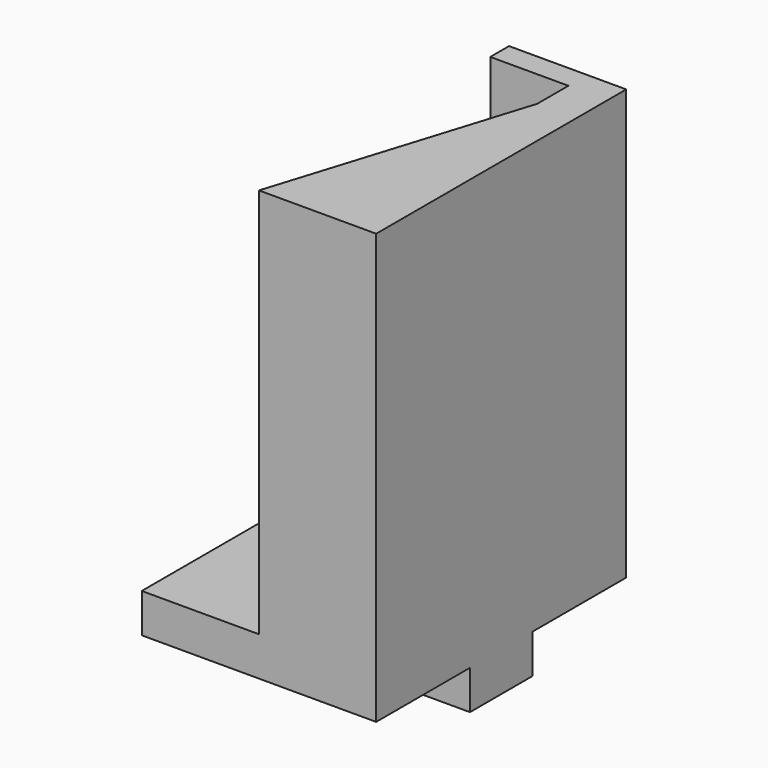
from build123d import *

# Parameters (mm, degrees)
F1_DEPTH = 50
F3_DEPTH = 15
F4_DEPTH = 15


with BuildPart() as f1:
    # F0 (on Top) → F1 (new body)
    with BuildSketch(Plane.XY):
        Polygon((0, 40), (0, 37), (10, 37), (10, 32), (0, 0), (15, 0), (15, 40), align=None)
    extrude(amount=F1_DEPTH)

    # F2 (on Right) → F3 (join)
    with BuildSketch(Plane.YZ):
        Polygon((40, -5), (40, 0), (0, 0), (0, -5), (15, -5), (15, -10), (25, -10), (25, -5), align=None)
    extrude(amount=F3_DEPTH)

    # F2 (on Right) → F4 (join)
    with BuildSketch(Plane.YZ):
        Polygon((40, -5), (40, 0), (0, 0), (0, -5), (15, -5), (15, -10), (25, -10), (25, -5), align=None)
    extrude(amount=-F4_DEPTH)


solid = f1.part
